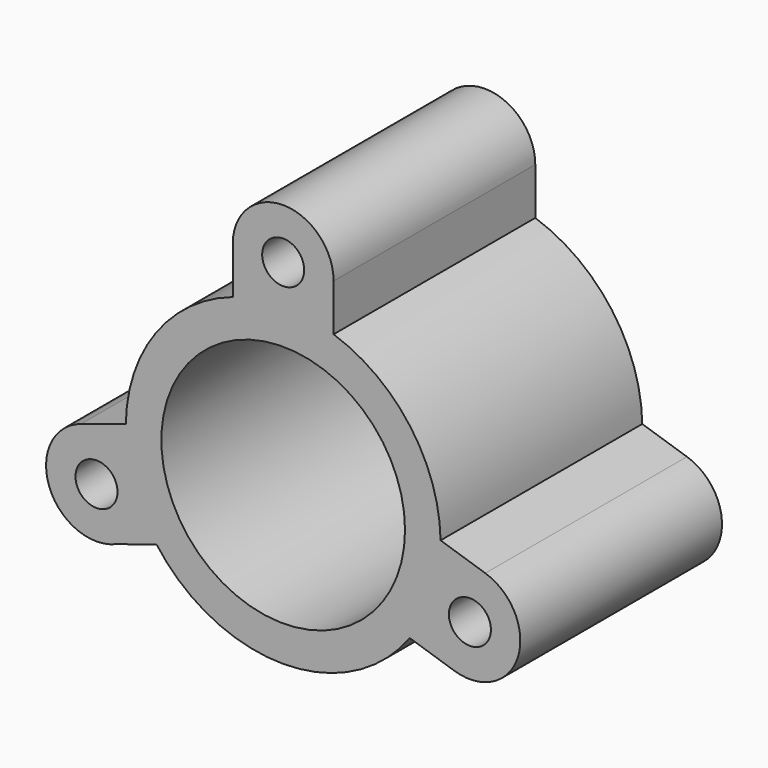
from build123d import *

# Parameters (mm, degrees)
F0_R     = 7.5
F0_R_2   = 43.5
F1_DEPTH = 90


with BuildPart() as f1:
    # F0 (on Front) → F1 (new body)
    with BuildSketch(Plane.XZ):
        with BuildLine():
            Line((-59.710717, -38.00515), (-45.230323, -33.356527))
            ThreePointArc((-45.230323, -33.356527), (-0.022679, -56.199995), (45.203387, -33.39302))
            Line((45.203387, -33.39302), (61.163897, -38.509449))
            ThreePointArc((61.163897, -38.509449), (83.799497, -26.863437), (72.153485, -4.227837))
            Line((72.153485, -4.227837), (56.192975, 0.888592))
            ThreePointArc((56.192975, 0.888592), (45.401571, 33.123063), (18, 53.239459))
            Line((18, 53.239459), (18, 69.999847))
            ThreePointArc((18, 69.999847), (0, 87.999847), (-18, 69.999847))
            Line((-18, 69.999847), (-18, 53.239459))
            ThreePointArc((-18, 53.239459), (-45.408469, 33.113607), (-56.19334, 0.865185))
            Line((-56.19334, 0.865185), (-72.151649, -4.25789))
            ThreePointArc((-72.151649, -4.25789), (-83.538616, -27.622503), (-59.710717, -38.00515))
        make_face()
        with Locations((-66.649695, -21.3964)):
            Circle(F0_R, mode=Mode.SUBTRACT)
        Circle(F0_R_2, mode=Mode.SUBTRACT)
        with Locations((66.658691, -21.368643)):
            Circle(F0_R, mode=Mode.SUBTRACT)
        with Locations((0, 69.999847)):
            Circle(F0_R, mode=Mode.SUBTRACT)
    extrude(amount=F1_DEPTH)


solid = f1.part
